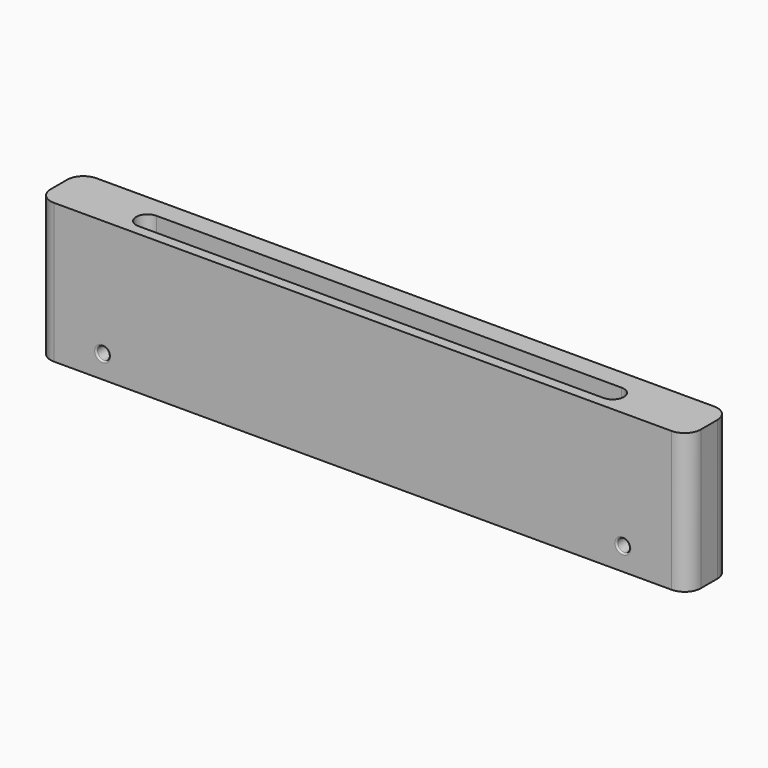
from build123d import *

# Parameters (mm, degrees)
F0_W      = 200
F0_H      = 2.35
F0_H_2    = 14
F1_DEPTH  = 43
F4_W      = 150
F4_H      = 11.08513
F5_DEPTH  = 7
F6_R      = 1.95
F7_DEPTH  = 16.351
F9_DEPTH  = 37
F10_R     = 5
F11_R     = 0.5
F13_DEPTH = 1.55
F14_W     = 18.3
F14_H     = 3.2
F15_DEPTH = 9


with BuildPart() as f1:
    # F0 (on Top) → F1 (new body)
    with BuildSketch(Plane.XY):
        with Locations((0, 8.175)):
            Rectangle(F0_W, F0_H)
        Rectangle(F0_W, F0_H_2)
    extrude(amount=F1_DEPTH)

    # F4 (on face) → F5 (cut)
    with BuildSketch(Plane(origin=(0, 0, 0), x_dir=(1, 0, 0), z_dir=(0, 0, -1))):
        with Locations((0, 0.35)):
            Rectangle(F4_W, F4_H)
    extrude(amount=-F5_DEPTH, mode=Mode.SUBTRACT)

    # F6 (on face) → F7 (cut, through all)
    with BuildSketch(Plane.XZ.offset(7)):
        with Locations((-80, 7)):
            Circle(F6_R)
        with Locations((80, 7)):
            Circle(F6_R)
    extrude(amount=-F7_DEPTH, mode=Mode.SUBTRACT)

    # F8 (on face) → F9 (cut)
    with BuildSketch(Plane.XY.offset(43)):
        with BuildLine():
            ThreePointArc((-71.55, 3.1), (-75, -0.35), (-71.55, -3.8))
            Line((-71.55, -3.8), (71.55, -3.8))
            ThreePointArc((71.55, -3.8), (75, -0.35), (71.55, 3.1))
            Line((71.55, 3.1), (-71.55, 3.1))
        make_face()
    extrude(amount=-F9_DEPTH, mode=Mode.SUBTRACT)

    # F10
    f10_edges = [f1.edges().sort_by_distance(p)[0] for p in [
        (-100, -7, 21.5),
        (-100, 9.35, 21.5),
        (100, -7, 21.5),
        (100, 9.35, 21.5),
    ]]
    fillet(f10_edges, radius=F10_R)

    # F11
    f11_edges = [f1.edges().sort_by_distance(p)[0] for p in [
        (78.05, 9.35, 7),
        (78.05, -7, 7),
        (-81.95, -7, 7),
        (-81.95, 9.35, 7),
    ]]
    fillet(f11_edges, radius=F11_R)

    # F12 (on Front) → F13 (cut, symmetric)
    with BuildSketch(Plane.XZ):
        Polygon((-75.85, 4.603996), (-75.85, 9.396004), (-80, 11.792007), (-84.15, 9.396004), (-84.15, 4.603996), (-80, 2.207993), align=None)
        Polygon((84.15, 4.603996), (84.15, 9.396004), (80, 11.792007), (75.85, 9.396004), (75.85, 4.603996), (80, 2.207993), align=None)
    extrude(amount=F13_DEPTH, both=True, mode=Mode.SUBTRACT)

    # F14 (on face) → F15 (cut)
    with BuildSketch(Plane(origin=(0, 0, 0), x_dir=(1, 0, 0), z_dir=(0, 0, -1))):
        with Locations((-75, 0)):
            Rectangle(F14_W, F14_H)
        with Locations((75, 0)):
            Rectangle(F14_W, F14_H)
    extrude(amount=-F15_DEPTH, mode=Mode.SUBTRACT)


solid = f1.part
